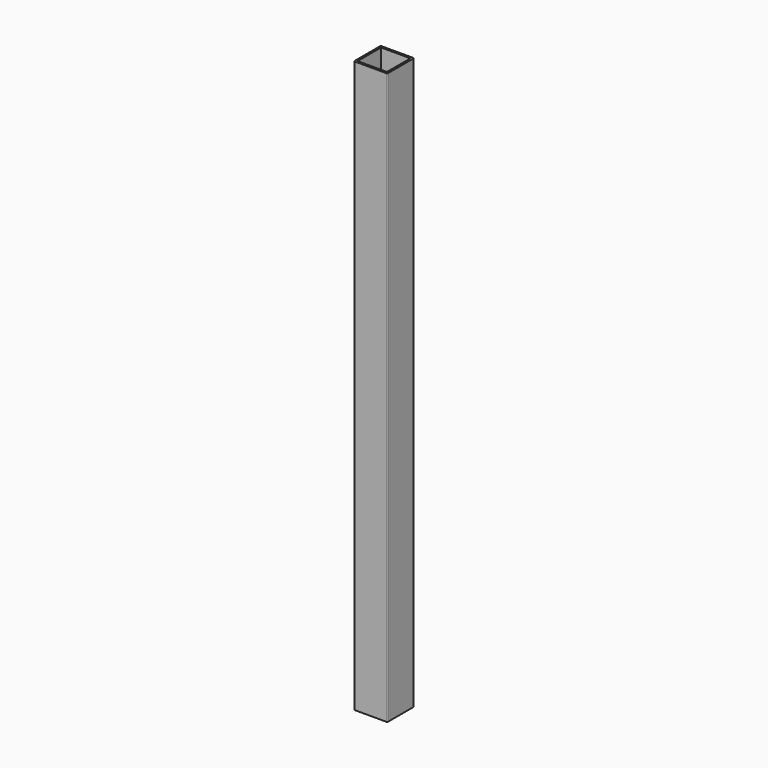
from build123d import *

# Parameters (mm, degrees)
SKETCH_W   = 25
SKETCH_H   = 25
SKETCH_W_2 = 22
SKETCH_H_2 = 22
PAD_DEPTH  = 428
FILLET_R   = 0.74


with BuildPart() as part:
    # Sketch → Pad (new body)
    with BuildSketch(Plane.XY):
        with Locations((12.5, 12.5)):
            Rectangle(SKETCH_W, SKETCH_H)
        with Locations((12.5, 12.5)):
            Rectangle(SKETCH_W_2, SKETCH_H_2, mode=Mode.SUBTRACT)
    extrude(amount=PAD_DEPTH)

    # Fillet
    fillet_edges = [part.edges().sort_by_distance(p)[0] for p in [
        (25, 0, 214),
        (0, 0, 214),
        (25, 25, 214),
        (0, 25, 214),
    ]]
    fillet(fillet_edges, radius=FILLET_R)


solid = part.part
